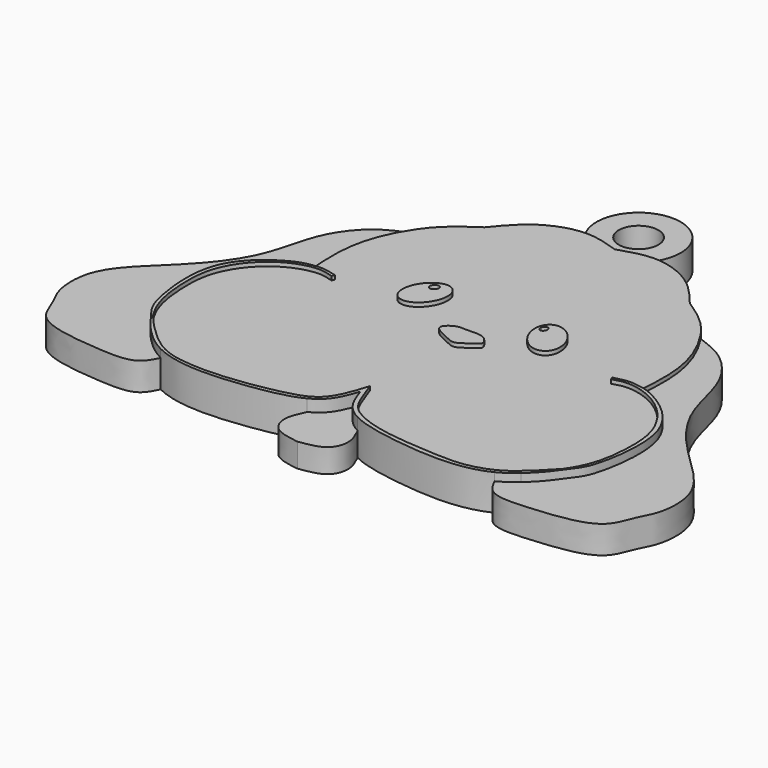
from build123d import *

# Parameters (mm, degrees)
F1_DEPTH = 4
F2_DEPTH = 3.5
F3_DEPTH = 4.5
F4_DEPTH = 4
F5_DEPTH = 3
F6_R     = 5.2988832541
F6_R_2   = 2.5
F7_DEPTH = 3.75
F8_DEPTH = 4.5


with BuildPart() as f1:
    # F0 (on Top) → F1 (new body)
    with BuildSketch(Plane.XY):
        with BuildLine():
            add(Edge.make_bspline(
                [(0, 24.4718304352), (1.4772243629, 24.9529784751), (4.5201837601, 25.9441034431), (9.7705529582, 23.998211858), (11.8819607976, 21.4121235608), (12.9248257726, 20.1348047704)],
                knots=[0, 0, 0, 0, 0.323168274, 0.665699782, 1, 1, 1, 1], degree=3))
            add(Edge.make_bspline(
                [(0, 24.4718304352), (-1.4772243629, 24.9529784751), (-4.5201837601, 25.9441034431), (-9.7705529582, 23.998211858), (-11.8819607976, 21.4121235608), (-12.9248257726, 20.1348047704)],
                knots=[0, 0, 0, 0, 0.323168274, 0.665699782, 1, 1, 1, 1], degree=3))
            add(Edge.make_bspline(
                [(-12.9248257726, 20.1348047704), (-14.2884568475, 19.2368627782), (-16.0243909612, 18.0937617114), (-17.5864892974, 16.0836330702), (-17.9066991843, 15.6216479951)],
                knots=[0, 0, 0, 0, 0.2906053413, 0.3699473669, 0.3699473669, 0.3699473669, 0.3699473669], degree=3))
            add(Edge.make_bspline(
                [(-17.9066991843, 15.6216479951), (-19.026156276, 14.0065433721), (-21.1577582566, 9.4807639903), (-20.8530022366, 4.993049439), (-20.6824149936, 2.4810503237)],
                knots=[0.3699473669, 0.3699473669, 0.3699473669, 0.3699473669, 0.647327913, 1, 1, 1, 1], degree=3))
            add(Edge.make_bspline(
                [(-20.6824149936, 2.4810503237), (-20.2698788457, 2.5546274046), (-19.3521688744, 2.7183037785), (-18.135652308, 2.4016364371), (-17.465993762, 2.2273198701)],
                knots=[0, 0, 0, 0, 0.4495278038, 1, 1, 1, 1], degree=3))
            add(Edge.make_bspline(
                [(-17.465993762, 2.2273198701), (-17.5114211937, 2.105015524), (-17.5568486253, 1.9827111779), (-17.602276057, 1.8604068318)],
                knots=[0, 0, 0, 0, 0.3914052141, 0.3914052141, 0.3914052141, 0.3914052141], degree=3))
            add(Edge.make_bspline(
                [(-17.602276057, 1.8604068318), (-18.1505208939, 2.0357830281), (-19.3907905118, 2.4325288148), (-22.2896172789, 1.7734639805), (-24.8495155255, 0.1122752872), (-26.7110373137, -2.0879901152), (-28.0379209564, -4.9676678115), (-28.1442988421, -9.0273346167), (-27.6544988255, -12.815974399), (-26.5533632636, -14.862213509), (-26.3011512672, -15.275993249)],
                knots=[0, 0, 0, 0, 0.0892543709, 0.2019145061, 0.3182928538, 0.4300937667, 0.5462708785, 0.6792387176, 0.8307670477, 0.8698778127, 0.8698778127, 0.8698778127, 0.8698778127], degree=3))
            add(Edge.make_bspline(
                [(-26.3011512672, -15.275993249), (-26.1992557155, -15.4431633895), (-26.0930662201, -15.6093511604), (-25.9831033203, -15.7746750127)],
                knots=[0.8698778127, 0.8698778127, 0.8698778127, 0.8698778127, 0.8856788572, 0.8856788572, 0.8856788572, 0.8856788572], degree=3))
            add(Edge.make_bspline(
                [(-25.9831033203, -15.7746750127), (-25.3632582096, -16.5876449811), (-21.6763597479, -20.6262408812), (-17.4257502059, -21.571649837), (-12.2943018848, -21.6226068068), (-5.7841802794, -20.5506684023), (-1.5692051789, -19.0970024841), (-0.5395895418, -15.8150047813), (0, -14.095033519)],
                knots=[0.0533107201, 0.0533107201, 0.0533107201, 0.0533107201, 0.223162544, 0.3705322008, 0.5266202222, 0.7056241304, 0.8457179588, 1, 1, 1, 1], degree=3))
            add(Edge.make_bspline(
                [(0, -14.095033519), (0.3295762095, -15.0560801652), (0.9577394558, -16.8878081954), (2.2123099545, -19.1197649014), (5.7454768603, -20.5375871279), (9.458272827, -21.1158635475), (13.8917961272, -21.4073806665), (17.6193843795, -21.5229338206), (21.0322401907, -20.3937802336), (23.2679125478, -18.6885556662), (24.9300121788, -16.9557612662), (25.8144017539, -16.0234641526)],
                knots=[0, 0, 0, 0, 0.1033915333, 0.1970521032, 0.3108970549, 0.4293326895, 0.5558112197, 0.6726600911, 0.7841187908, 0.8844115517, 1, 1, 1, 1], degree=3))
            add(Edge.make_bspline(
                [(17.602276057, 1.8604068318), (18.1505208939, 2.0357830281), (19.3907905118, 2.4325288148), (22.2896172789, 1.7734639805), (24.8495155255, 0.1122752872), (26.7110373137, -2.0879901152), (28.0379209564, -4.9676678115), (28.1442988421, -9.0273346167), (27.6185553513, -13.0939998611), (26.2664212041, -15.3691248975), (25.8144017539, -16.0234641526)],
                knots=[0, 0, 0, 0, 0.0892543709, 0.2019145061, 0.3182928538, 0.4300937667, 0.5462708785, 0.6792387176, 0.8307670477, 0.8936253772, 0.8936253772, 0.8936253772, 0.8936253772], degree=3))
            add(Edge.make_bspline(
                [(17.465993762, 2.2273198701), (17.5114211937, 2.105015524), (17.5568486253, 1.9827111779), (17.602276057, 1.8604068318)],
                knots=[0, 0, 0, 0, 0.3914052141, 0.3914052141, 0.3914052141, 0.3914052141], degree=3))
            add(Edge.make_bspline(
                [(20.6824149936, 2.4810503237), (20.2698788457, 2.5546274046), (19.3521688744, 2.7183037785), (18.135652308, 2.4016364371), (17.465993762, 2.2273198701)],
                knots=[0, 0, 0, 0, 0.4495278038, 1, 1, 1, 1], degree=3))
            add(Edge.make_bspline(
                [(17.9066991843, 15.6216479951), (19.026156276, 14.0065433721), (21.1577582566, 9.4807639903), (20.8530022366, 4.993049439), (20.6824149936, 2.4810503237)],
                knots=[0.3699473669, 0.3699473669, 0.3699473669, 0.3699473669, 0.647327913, 1, 1, 1, 1], degree=3))
            add(Edge.make_bspline(
                [(12.9248257726, 20.1348047704), (14.2884568475, 19.2368627782), (16.0243909612, 18.0937617114), (17.5864892974, 16.0836330702), (17.9066991843, 15.6216479951)],
                knots=[0, 0, 0, 0, 0.2906053413, 0.3699473669, 0.3699473669, 0.3699473669, 0.3699473669], degree=3))
        make_face()
        with BuildLine():
            add(Edge.make_bspline(
                [(0, 1.2208507396), (-0.5314489016, 1.2227530751), (-1.3447492423, 1.4069506428), (-3.2717809411, -0.1857752398), (-0.4811274142, -1.1819752148), (0.6219722424, -2.0275105992), (2.4062255171, -0.4377968749), (3.183358622, -0.0801610408), (2.1588934057, 1.4496553808), (0.6472167307, 1.2185340101), (0, 1.2208507396)],
                knots=[0, 0, 0, 0, 0.1198189736, 0.2441226036, 0.3934305275, 0.5103178601, 0.6567968144, 0.7384555912, 0.8540803375, 1, 1, 1, 1], degree=3))
        make_face(mode=Mode.SUBTRACT)
        with BuildLine():
            add(Edge.make_bspline(
                [(-6.7851459607, 7.2852424346), (-9.7308464047, 9.0095546419), (-10.3928711115, 4.5003200111), (-11.0548958182, -0.0089146197), (-7.4471706675, 2.7760078038), (-3.8394455168, 5.5609302273), (-6.7851459607, 7.2852424346)],
                knots=[0, 0, 0, 2.0943951024, 2.0943951024, 4.1887902048, 4.1887902048, 6.2831853072, 6.2831853072, 6.2831853072], degree=2, weights=[1, 0.5, 1, 0.5, 1, 0.5, 1]))
        make_face(mode=Mode.SUBTRACT)
        with BuildLine():
            add(Edge.make_bspline(
                [(5.7851462625, 7.2852424346), (2.8394458186, 5.5609302273), (6.4471709693, 2.7760078038), (10.05489612, -0.0089146197), (9.3928714132, 4.5003200111), (8.7308467064, 9.0095546419), (5.7851462625, 7.2852424346)],
                knots=[0, 0, 0, 2.0943951024, 2.0943951024, 4.1887902048, 4.1887902048, 6.2831853072, 6.2831853072, 6.2831853072], degree=2, weights=[1, 0.5, 1, 0.5, 1, 0.5, 1]))
        make_face(mode=Mode.SUBTRACT)
    extrude(amount=F1_DEPTH)

    # F0 (on Top) → F2 (join)
    with BuildSketch(Plane.XY):
        with BuildLine():
            add(Edge.make_bspline(
                [(-17.9066991843, 15.6216479951), (-19.026156276, 14.0065433721), (-21.1577582566, 9.4807639903), (-20.8530022366, 4.993049439), (-20.6824149936, 2.4810503237)],
                knots=[0.3699473669, 0.3699473669, 0.3699473669, 0.3699473669, 0.647327913, 1, 1, 1, 1], degree=3))
            add(Edge.make_bspline(
                [(-17.9066991843, 15.6216479951), (-19.1381449344, 15.1730256691), (-21.8135112139, 14.1925079285), (-25.6353202909, 9.5962514327), (-26.527824205, 2.2618409759), (-31.9057740033, -4.3025631172), (-38.4689872473, -9.7546231664), (-38.0676433175, -15.9755560823), (-36.5810824006, -18.0966575239), (-35.6583027128, -21.6900165836), (-30.7273269111, -22.772651356), (-27.6915613602, -23.0029289869), (-22.3770846707, -23.4524357129), (-21.4570766581, -21.6071560297), (-21.0373606533, -20.7482464612)],
                knots=[0, 0, 0, 0, 0.0760838101, 0.1656466844, 0.2673159245, 0.3777776604, 0.4871256819, 0.5749916651, 0.6358380584, 0.7044108329, 0.7849517101, 0.8555760366, 0.938185934, 1, 1, 1, 1], degree=3))
            add(Edge.make_bspline(
                [(-23.2009216366, -19.2722404363), (-22.5518016888, -19.8341725988), (-21.8300709045, -20.3480701752), (-21.0373606533, -20.7482464612)],
                knots=[0.5477183614, 0.5477183614, 0.5477183614, 0.5477183614, 0.5891435516, 0.5891435516, 0.5891435516, 0.5891435516], degree=3))
            add(Edge.make_bspline(
                [(-20.6824149936, 2.4810503237), (-21.5267944017, 2.3899464641), (-24.0584183833, 1.3726944613), (-29.5359535071, -3.3937298497), (-27.9736334199, -13.3109342932), (-26.7684310206, -15.0765499022), (-24.7155731078, -17.9610322698), (-23.2009216366, -19.2722404363)],
                knots=[0, 0, 0, 0, 0.0901471213, 0.2206757461, 0.3704372803, 0.4510571424, 0.5477183614, 0.5477183614, 0.5477183614, 0.5477183614], degree=3))
        make_face()
        with BuildLine():
            add(Edge.make_bspline(
                [(17.9066991843, 15.6216479951), (19.1381449344, 15.1730256691), (21.8135112139, 14.1925079285), (25.6353202909, 9.5962514327), (26.527824205, 2.2618409759), (31.9057740033, -4.3025631172), (38.4689872473, -9.7546231664), (38.0676433175, -15.9755560823), (36.5810824006, -18.0966575239), (35.6583027128, -21.6900165836), (30.7273269111, -22.772651356), (27.6915613602, -23.0029289869), (22.3770846707, -23.4524357129), (21.4570766581, -21.6071560297), (21.0373606533, -20.7482464612)],
                knots=[0, 0, 0, 0, 0.0760838101, 0.1656466844, 0.2673159245, 0.3777776604, 0.4871256819, 0.5749916651, 0.6358380584, 0.7044108329, 0.7849517101, 0.8555760366, 0.938185934, 1, 1, 1, 1], degree=3))
            add(Edge.make_bspline(
                [(17.9066991843, 15.6216479951), (19.026156276, 14.0065433721), (21.1577582566, 9.4807639903), (20.8530022366, 4.993049439), (20.6824149936, 2.4810503237)],
                knots=[0.3699473669, 0.3699473669, 0.3699473669, 0.3699473669, 0.647327913, 1, 1, 1, 1], degree=3))
            add(Edge.make_bspline(
                [(20.6824149936, 2.4810503237), (21.5267944017, 2.3899464641), (24.0584183833, 1.3726944613), (29.5359535071, -3.3937298497), (27.9736334199, -13.3109342932), (26.7684310206, -15.0765499022), (24.7155731078, -17.9610322698), (23.2009216366, -19.2722404363)],
                knots=[0, 0, 0, 0, 0.0901471213, 0.2206757461, 0.3704372803, 0.4510571424, 0.5477183614, 0.5477183614, 0.5477183614, 0.5477183614], degree=3))
            add(Edge.make_bspline(
                [(23.2009216366, -19.2722404363), (22.5518016888, -19.8341725988), (21.8300709045, -20.3480701752), (21.0373606533, -20.7482464612)],
                knots=[0.5477183614, 0.5477183614, 0.5477183614, 0.5477183614, 0.5891435516, 0.5891435516, 0.5891435516, 0.5891435516], degree=3))
        make_face()
    extrude(amount=F2_DEPTH)

    # F0 (on Top) → F3 (join)
    with BuildSketch(Plane.XY):
        with BuildLine():
            add(Edge.make_bspline(
                [(0, 1.2208507396), (-0.5314489016, 1.2227530751), (-1.3447492423, 1.4069506428), (-3.2717809411, -0.1857752398), (-0.4811274142, -1.1819752148), (0.6219722424, -2.0275105992), (2.4062255171, -0.4377968749), (3.183358622, -0.0801610408), (2.1588934057, 1.4496553808), (0.6472167307, 1.2185340101), (0, 1.2208507396)],
                knots=[0, 0, 0, 0, 0.1198189736, 0.2441226036, 0.3934305275, 0.5103178601, 0.6567968144, 0.7384555912, 0.8540803375, 1, 1, 1, 1], degree=3))
        make_face()
        with BuildLine():
            add(Edge.make_bspline(
                [(-6.7851459607, 7.2852424346), (-9.7308464047, 9.0095546419), (-10.3928711115, 4.5003200111), (-11.0548958182, -0.0089146197), (-7.4471706675, 2.7760078038), (-3.8394455168, 5.5609302273), (-6.7851459607, 7.2852424346)],
                knots=[0, 0, 0, 2.0943951024, 2.0943951024, 4.1887902048, 4.1887902048, 6.2831853072, 6.2831853072, 6.2831853072], degree=2, weights=[1, 0.5, 1, 0.5, 1, 0.5, 1]))
        make_face()
        with BuildLine():
            add(Edge.make_bspline(
                [(-7.8456066549, 6.7301657982), (-8.394929017, 7.2794874985), (-8.6999700382, 6.4251237476), (-9.0050110593, 5.5707599968), (-8.150647676, 5.8758020474), (-7.2962842927, 6.180844098), (-7.8456066549, 6.7301657982)],
                knots=[0, 0, 0, 2.0943951024, 2.0943951024, 4.1887902048, 4.1887902048, 6.2831853072, 6.2831853072, 6.2831853072], degree=2, weights=[1, 0.5, 1, 0.5, 1, 0.5, 1]))
        make_face(mode=Mode.SUBTRACT)
        with BuildLine():
            add(Edge.make_bspline(
                [(5.7851462625, 7.2852424346), (2.8394458186, 5.5609302273), (6.4471709693, 2.7760078038), (10.05489612, -0.0089146197), (9.3928714132, 4.5003200111), (8.7308467064, 9.0095546419), (5.7851462625, 7.2852424346)],
                knots=[0, 0, 0, 2.0943951024, 2.0943951024, 4.1887902048, 4.1887902048, 6.2831853072, 6.2831853072, 6.2831853072], degree=2, weights=[1, 0.5, 1, 0.5, 1, 0.5, 1]))
        make_face()
        with BuildLine():
            add(Edge.make_bspline(
                [(5.8862520382, 6.5989671275), (5.2363364673, 6.7989413525), (5.3497266348, 6.0113601801), (5.4631168023, 5.2237790078), (5.9996422057, 5.8113859552), (6.5361676091, 6.3989929026), (5.8862520382, 6.5989671275)],
                knots=[0, 0, 0, 2.0943951024, 2.0943951024, 4.1887902048, 4.1887902048, 6.2831853072, 6.2831853072, 6.2831853072], degree=2, weights=[1, 0.5, 1, 0.5, 1, 0.5, 1]))
        make_face(mode=Mode.SUBTRACT)
    extrude(amount=F3_DEPTH)

    # F0 (on Top) → F4 (join)
    with BuildSketch(Plane.XY):
        with BuildLine():
            add(Edge.make_bspline(
                [(-7.8456066549, 6.7301657982), (-8.394929017, 7.2794874985), (-8.6999700382, 6.4251237476), (-9.0050110593, 5.5707599968), (-8.150647676, 5.8758020474), (-7.2962842927, 6.180844098), (-7.8456066549, 6.7301657982)],
                knots=[0, 0, 0, 2.0943951024, 2.0943951024, 4.1887902048, 4.1887902048, 6.2831853072, 6.2831853072, 6.2831853072], degree=2, weights=[1, 0.5, 1, 0.5, 1, 0.5, 1]))
        make_face()
        with BuildLine():
            add(Edge.make_bspline(
                [(5.8862520382, 6.5989671275), (5.2363364673, 6.7989413525), (5.3497266348, 6.0113601801), (5.4631168023, 5.2237790078), (5.9996422057, 5.8113859552), (6.5361676091, 6.3989929026), (5.8862520382, 6.5989671275)],
                knots=[0, 0, 0, 2.0943951024, 2.0943951024, 4.1887902048, 4.1887902048, 6.2831853072, 6.2831853072, 6.2831853072], degree=2, weights=[1, 0.5, 1, 0.5, 1, 0.5, 1]))
        make_face()
    extrude(amount=F4_DEPTH)

    # F6 (on Top) → F7 (join)
    with BuildSketch(Plane.XY):
        with Locations((-0.0469937827, 28.2829366624)):
            Circle(F6_R)
        with Locations((-0.0469937827, 28.2829366624)):
            Circle(F6_R_2, mode=Mode.SUBTRACT)
    extrude(amount=F7_DEPTH)



with BuildPart() as f5:
    # F0 (on Top) → F5 (new body)
    with BuildSketch(Plane.XY):
        with BuildLine():
            add(Edge.make_bspline(
                [(-3.1974644243, -20.0111394195), (-2.7716964488, -19.7920553786), (-1.0704051485, -18.6880971934), (-0.4546136851, -16.9337657188), (0, -15.6001076102)],
                knots=[0.8684241754, 0.8684241754, 0.8684241754, 0.8684241754, 0.8977693601, 1, 1, 1, 1], degree=3))
            add(Edge.make_bspline(
                [(-3.1974644243, -20.0111394195), (-3.5405138252, -20.7530509337), (-4.191518145, -22.1324842346), (-3.7651841409, -24.0589376978), (-2.5011507758, -25.147798468), (-0.901858341, -25.3910862877), (0, -25.5281695648)],
                knots=[0, 0, 0, 0, 0.2687128811, 0.5033087798, 0.7200952061, 1, 1, 1, 1], degree=3))
            add(Edge.make_bspline(
                [(3.1974644243, -20.0111394195), (3.5405138252, -20.7530509337), (4.191518145, -22.1324842346), (3.7651841409, -24.0589376978), (2.5011507758, -25.147798468), (0.901858341, -25.3910862877), (0, -25.5281695648)],
                knots=[0, 0, 0, 0, 0.2687128811, 0.5033087798, 0.7200952061, 1, 1, 1, 1], degree=3))
            add(Edge.make_bspline(
                [(3.1974644243, -20.0111394195), (2.7716964488, -19.7920553786), (1.0704051485, -18.6880971934), (0.4546136851, -16.9337657188), (0, -15.6001076102)],
                knots=[0.8684241754, 0.8684241754, 0.8684241754, 0.8684241754, 0.8977693601, 1, 1, 1, 1], degree=3))
        make_face()
    extrude(amount=F5_DEPTH)


with BuildPart() as f1_1:
    add(f1.part)

    add(f5.part)  # F8 merges F5
    # F0 (on Top) → F8 (join)
    with BuildSketch(Plane.XY):
        with BuildLine():
            add(Edge.make_bspline(
                [(-20.6824149936, 2.4810503237), (-20.2698788457, 2.5546274046), (-19.3521688744, 2.7183037785), (-18.135652308, 2.4016364371), (-17.465993762, 2.2273198701)],
                knots=[0, 0, 0, 0, 0.4495278038, 1, 1, 1, 1], degree=3))
            add(Edge.make_bspline(
                [(-20.6824149936, 2.4810503237), (-21.5267944017, 2.3899464641), (-24.0584183833, 1.3726944613), (-29.5359535071, -3.3937298497), (-27.9736334199, -13.3109342932), (-26.7684310206, -15.0765499022), (-24.7155731078, -17.9610322698), (-23.2009216366, -19.2722404363)],
                knots=[0, 0, 0, 0, 0.0901471213, 0.2206757461, 0.3704372803, 0.4510571424, 0.5477183614, 0.5477183614, 0.5477183614, 0.5477183614], degree=3))
            add(Edge.make_bspline(
                [(-25.9831033203, -15.7746750127), (-25.1875176629, -16.9707992142), (-24.1944102771, -18.1217009431), (-23.2009216366, -19.2722404363)],
                knots=[0.8856788572, 0.8856788572, 0.8856788572, 0.8856788572, 1, 1, 1, 1], degree=3))
            add(Edge.make_bspline(
                [(-26.3011512672, -15.275993249), (-26.238789927, -15.3972835622), (-26.1776516535, -15.5195113443), (-25.9831033203, -15.7746750127)],
                knots=[0, 0, 0, 0, 0.0533107201, 0.0533107201, 0.0533107201, 0.0533107201], degree=3))
            add(Edge.make_bspline(
                [(-17.602276057, 1.8604068318), (-18.1505208939, 2.0357830281), (-19.3907905118, 2.4325288148), (-22.2896172789, 1.7734639805), (-24.8495155255, 0.1122752872), (-26.7110373137, -2.0879901152), (-28.0379209564, -4.9676678115), (-28.1442988421, -9.0273346167), (-27.6544988255, -12.815974399), (-26.5533632636, -14.862213509), (-26.3011512672, -15.275993249)],
                knots=[0, 0, 0, 0, 0.0892543709, 0.2019145061, 0.3182928538, 0.4300937667, 0.5462708785, 0.6792387176, 0.8307670477, 0.8698778127, 0.8698778127, 0.8698778127, 0.8698778127], degree=3))
            add(Edge.make_bspline(
                [(-17.465993762, 2.2273198701), (-17.5114211937, 2.105015524), (-17.5568486253, 1.9827111779), (-17.602276057, 1.8604068318)],
                knots=[0, 0, 0, 0, 0.3914052141, 0.3914052141, 0.3914052141, 0.3914052141], degree=3))
        make_face()
        with BuildLine():
            add(Edge.make_bspline(
                [(20.6824149936, 2.4810503237), (21.5267944017, 2.3899464641), (24.0584183833, 1.3726944613), (29.5359535071, -3.3937298497), (27.9736334199, -13.3109342932), (26.7684310206, -15.0765499022), (24.7155731078, -17.9610322698), (23.2009216366, -19.2722404363)],
                knots=[0, 0, 0, 0, 0.0901471213, 0.2206757461, 0.3704372803, 0.4510571424, 0.5477183614, 0.5477183614, 0.5477183614, 0.5477183614], degree=3))
            add(Edge.make_bspline(
                [(20.6824149936, 2.4810503237), (20.2698788457, 2.5546274046), (19.3521688744, 2.7183037785), (18.135652308, 2.4016364371), (17.465993762, 2.2273198701)],
                knots=[0, 0, 0, 0, 0.4495278038, 1, 1, 1, 1], degree=3))
            add(Edge.make_bspline(
                [(17.465993762, 2.2273198701), (17.5114211937, 2.105015524), (17.5568486253, 1.9827111779), (17.602276057, 1.8604068318)],
                knots=[0, 0, 0, 0, 0.3914052141, 0.3914052141, 0.3914052141, 0.3914052141], degree=3))
            add(Edge.make_bspline(
                [(17.602276057, 1.8604068318), (18.1505208939, 2.0357830281), (19.3907905118, 2.4325288148), (22.2896172789, 1.7734639805), (24.8495155255, 0.1122752872), (26.7110373137, -2.0879901152), (28.0379209564, -4.9676678115), (28.1442988421, -9.0273346167), (27.6185553513, -13.0939998611), (26.2664212041, -15.3691248975), (25.8144017539, -16.0234641526)],
                knots=[0, 0, 0, 0, 0.0892543709, 0.2019145061, 0.3182928538, 0.4300937667, 0.5462708785, 0.6792387176, 0.8307670477, 0.8936253772, 0.8936253772, 0.8936253772, 0.8936253772], degree=3))
            add(Edge.make_bspline(
                [(25.8144017539, -16.0234641526), (25.0494530361, -17.1307969765), (24.1253523835, -18.2016755202), (23.2009216366, -19.2722404363)],
                knots=[0.8936253772, 0.8936253772, 0.8936253772, 0.8936253772, 1, 1, 1, 1], degree=3))
        make_face()
        with BuildLine():
            add(Edge.make_bspline(
                [(-23.2009216366, -19.2722404363), (-22.5518016888, -19.8341725988), (-21.8300709045, -20.3480701752), (-21.0373606533, -20.7482464612)],
                knots=[0.5477183614, 0.5477183614, 0.5477183614, 0.5477183614, 0.5891435516, 0.5891435516, 0.5891435516, 0.5891435516], degree=3))
            add(Edge.make_bspline(
                [(-21.0373606533, -20.7482464612), (-17.8000975291, -22.3824828441), (-10.501582333, -21.9494045832), (-4.7950280522, -20.8331850296), (-3.1974644243, -20.0111394195)],
                knots=[0.5891435516, 0.5891435516, 0.5891435516, 0.5891435516, 0.758315378, 0.8684241754, 0.8684241754, 0.8684241754, 0.8684241754], degree=3))
            add(Edge.make_bspline(
                [(-3.1974644243, -20.0111394195), (-2.7716964488, -19.7920553786), (-1.0704051485, -18.6880971934), (-0.4546136851, -16.9337657188), (0, -15.6001076102)],
                knots=[0.8684241754, 0.8684241754, 0.8684241754, 0.8684241754, 0.8977693601, 1, 1, 1, 1], degree=3))
            add(Edge.make_bspline(
                [(3.1974644243, -20.0111394195), (2.7716964488, -19.7920553786), (1.0704051485, -18.6880971934), (0.4546136851, -16.9337657188), (0, -15.6001076102)],
                knots=[0.8684241754, 0.8684241754, 0.8684241754, 0.8684241754, 0.8977693601, 1, 1, 1, 1], degree=3))
            add(Edge.make_bspline(
                [(21.0373606533, -20.7482464612), (17.8000975291, -22.3824828441), (10.501582333, -21.9494045832), (4.7950280522, -20.8331850296), (3.1974644243, -20.0111394195)],
                knots=[0.5891435516, 0.5891435516, 0.5891435516, 0.5891435516, 0.758315378, 0.8684241754, 0.8684241754, 0.8684241754, 0.8684241754], degree=3))
            add(Edge.make_bspline(
                [(23.2009216366, -19.2722404363), (22.5518016888, -19.8341725988), (21.8300709045, -20.3480701752), (21.0373606533, -20.7482464612)],
                knots=[0.5477183614, 0.5477183614, 0.5477183614, 0.5477183614, 0.5891435516, 0.5891435516, 0.5891435516, 0.5891435516], degree=3))
            add(Edge.make_bspline(
                [(25.8144017539, -16.0234641526), (25.0494530361, -17.1307969765), (24.1253523835, -18.2016755202), (23.2009216366, -19.2722404363)],
                knots=[0.8936253772, 0.8936253772, 0.8936253772, 0.8936253772, 1, 1, 1, 1], degree=3))
            add(Edge.make_bspline(
                [(0, -14.095033519), (0.3295762095, -15.0560801652), (0.9577394558, -16.8878081954), (2.2123099545, -19.1197649014), (5.7454768603, -20.5375871279), (9.458272827, -21.1158635475), (13.8917961272, -21.4073806665), (17.6193843795, -21.5229338206), (21.0322401907, -20.3937802336), (23.2679125478, -18.6885556662), (24.9300121788, -16.9557612662), (25.8144017539, -16.0234641526)],
                knots=[0, 0, 0, 0, 0.1033915333, 0.1970521032, 0.3108970549, 0.4293326895, 0.5558112197, 0.6726600911, 0.7841187908, 0.8844115517, 1, 1, 1, 1], degree=3))
            add(Edge.make_bspline(
                [(-25.9831033203, -15.7746750127), (-25.3632582096, -16.5876449811), (-21.6763597479, -20.6262408812), (-17.4257502059, -21.571649837), (-12.2943018848, -21.6226068068), (-5.7841802794, -20.5506684023), (-1.5692051789, -19.0970024841), (-0.5395895418, -15.8150047813), (0, -14.095033519)],
                knots=[0.0533107201, 0.0533107201, 0.0533107201, 0.0533107201, 0.223162544, 0.3705322008, 0.5266202222, 0.7056241304, 0.8457179588, 1, 1, 1, 1], degree=3))
            add(Edge.make_bspline(
                [(-25.9831033203, -15.7746750127), (-25.1875176629, -16.9707992142), (-24.1944102771, -18.1217009431), (-23.2009216366, -19.2722404363)],
                knots=[0.8856788572, 0.8856788572, 0.8856788572, 0.8856788572, 1, 1, 1, 1], degree=3))
        make_face()
    extrude(amount=F8_DEPTH)


solid = f1_1.part
